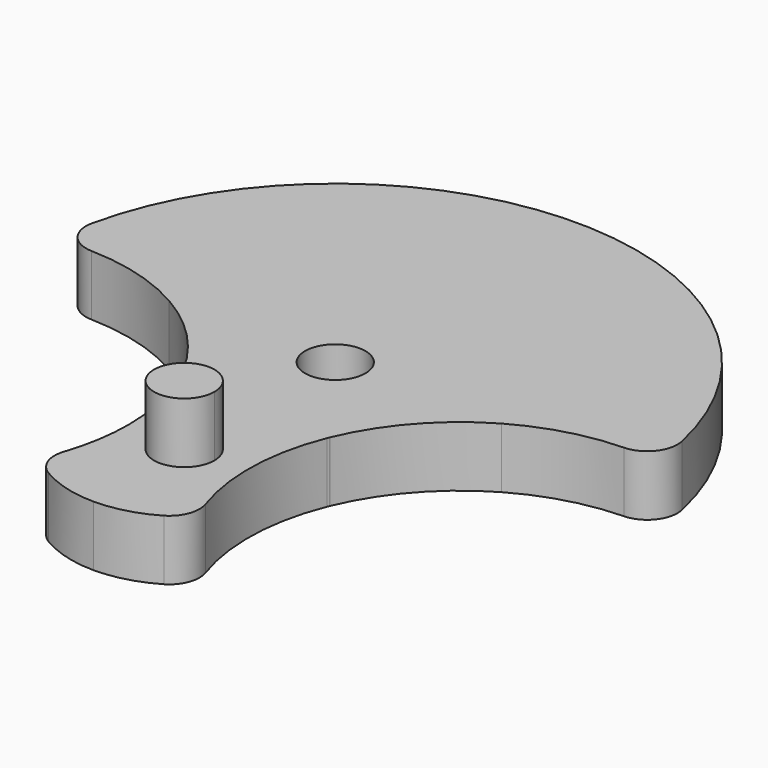
from build123d import *

# Parameters (mm, degrees)
F0_R     = 25.4
F1_DEPTH = 5.08
F3_DEPTH = 25.4
F4_R     = 2.54
F5_R     = 2.54
F6_DEPTH = 25.4
F8_DEPTH = 5.08


with BuildPart() as f1:
    # F0 (on Top) → F1 (new body)
    with BuildSketch(Plane.XY):
        Circle(F0_R)
    extrude(amount=F1_DEPTH)

    # F2 (on face) → F3 (cut)
    with BuildSketch(Plane.XY.offset(5.08)):
        with BuildLine():
            ThreePointArc((-6.6100981471, -22.7330046286), (-9.5231262698, -15.6860792516), (-6.3329048366, -8.7602307605))
            ThreePointArc((-6.3329048366, -8.7602307605), (-6.3640275163, -8.6837329224), (-6.3955051853, -8.6073804713))
            Line((-6.3955051853, -8.6073804713), (-6.4190231614, -8.5806554984))
            ThreePointArc((-6.4190231614, -8.5806554984), (-18.6783561202, -10.4151947963), (-25.4, -3e-09))
            ThreePointArc((-25.4, -3e-09), (-20.4128361311, -15.1154265929), (-7.4097542481, -24.295175282))
            ThreePointArc((-7.4097542481, -24.295175282), (-6.9906405345, -23.523962051), (-6.6100981471, -22.7330046286))
        make_face()
        with BuildLine():
            Line((-13.97, 0), (-6.4190231614, -8.5806554984))
            ThreePointArc((-6.4190231614, -8.5806554984), (-6.4144876205, -8.5766620945), (-6.4099541915, -8.5726662931))
            ThreePointArc((-6.4099541915, -8.5726662931), (-9.482325957, -3.6622711754), (-13.97, 0))
        make_face()
        with BuildLine():
            ThreePointArc((-25.4, -3e-09), (-18.6783561202, -10.4151947963), (-6.4190231614, -8.5806554984))
            Line((-6.4190231614, -8.5806554984), (-13.97, 0))
            ThreePointArc((-13.97, 0), (-19.3966889497, 2.0254618044), (-25.1864455812, 2.1991472264))
            ThreePointArc((-25.1864455812, 2.1991472264), (-25.3464861227, 1.1047458984), (-25.4, -3e-09))
        make_face()
        with BuildLine():
            ThreePointArc((-5.0375846352, -15.4223424331), (-5.3644186356, -12.0289080974), (-6.3329048366, -8.7602307605))
            ThreePointArc((-6.3329048366, -8.7602307605), (-9.5231262698, -15.6860792516), (-6.6100981471, -22.7330046286))
            ThreePointArc((-6.6100981471, -22.7330046286), (-5.4351580244, -19.1612787953), (-5.0375846352, -15.4223424331))
        make_face()
        with BuildLine():
            ThreePointArc((-7.4097542481, -24.295175282), (-3.7458341923, -25.1222754981), (3.3e-08, -25.4))
            ThreePointArc((3.3e-08, -25.4), (-3.3627869226, -24.7866378468), (-6.2924806988, -23.0255462487))
            Line((-6.2924806988, -23.0255462487), (-7.4097542481, -24.295175282))
        make_face()
        with BuildLine():
            Line((7.4097542481, -24.295175282), (6.2924806988, -23.0255462487))
            ThreePointArc((6.2924806988, -23.0255462487), (3.3627869535, -24.7866378352), (3.3e-08, -25.4))
            ThreePointArc((3.3e-08, -25.4), (3.745834225, -25.1222754933), (7.4097542481, -24.295175282))
        make_face()
        with BuildLine():
            ThreePointArc((6.3329048366, -8.7602307605), (8.690412636, -11.9759804802), (9.525, -15.875))
            ThreePointArc((9.525, -15.875), (8.7660370137, -19.6008851398), (6.6100981471, -22.7330046286))
            ThreePointArc((6.6100981471, -22.7330046286), (6.9906405345, -23.523962051), (7.4097542481, -24.295175282))
            ThreePointArc((7.4097542481, -24.295175282), (20.412836132, -15.1154265917), (25.4, 0))
            ThreePointArc((25.4, 0), (18.6783561215, -10.4151947957), (6.4190231614, -8.5806554984))
            Line((6.4190231614, -8.5806554984), (6.3955051853, -8.6073804713))
            ThreePointArc((6.3955051853, -8.6073804713), (6.3640275163, -8.6837329224), (6.3329048366, -8.7602307605))
        make_face()
        with BuildLine():
            Line((13.97, 0), (6.4190231614, -8.5806554984))
            ThreePointArc((6.4190231614, -8.5806554984), (18.6783561215, -10.4151947957), (25.4, 0))
            ThreePointArc((25.4, 0), (25.3464861226, 1.1047458999), (25.1864455812, 2.1991472264))
            ThreePointArc((25.1864455812, 2.1991472264), (19.3966889497, 2.0254618044), (13.97, 0))
        make_face()
        with BuildLine():
            ThreePointArc((6.6100981471, -22.7330046286), (8.7660370137, -19.6008851398), (9.525, -15.875))
            ThreePointArc((9.525, -15.875), (8.690412636, -11.9759804802), (6.3329048366, -8.7602307605))
            ThreePointArc((6.3329048366, -8.7602307605), (5.0410822649, -15.7749944968), (6.6100981471, -22.7330046286))
        make_face()
        with BuildLine():
            ThreePointArc((6.4099541915, -8.5726662931), (6.4144876205, -8.5766620945), (6.4190231614, -8.5806554984))
            Line((6.4190231614, -8.5806554984), (13.97, 0))
            ThreePointArc((13.97, 0), (9.482325957, -3.6622711754), (6.4099541915, -8.5726662931))
        make_face()
        with BuildLine():
            Line((-7.4097542481, -24.295175282), (-6.2924806988, -23.0255462487))
            ThreePointArc((-6.2924806988, -23.0255462487), (-6.4529474172, -22.8810755514), (-6.6100981471, -22.7330046286))
            ThreePointArc((-6.6100981471, -22.7330046286), (-6.9906405345, -23.523962051), (-7.4097542481, -24.295175282))
        make_face()
        with BuildLine():
            ThreePointArc((7.4097542481, -24.295175282), (6.9906405345, -23.523962051), (6.6100981471, -22.7330046286))
            ThreePointArc((6.6100981471, -22.7330046286), (6.4529474172, -22.8810755514), (6.2924806988, -23.0255462487))
            Line((6.2924806988, -23.0255462487), (7.4097542481, -24.295175282))
        make_face()
        with BuildLine():
            ThreePointArc((-25.1864455812, 2.1991472264), (-25.2462602872, 2.1910029214), (-25.306046997, 2.1826555809))
            ThreePointArc((-25.306046997, 2.1826555809), (-25.3765008791, 1.0923383792), (-25.4, -3e-09))
            ThreePointArc((-25.4, -3e-09), (-25.3464861227, 1.1047458984), (-25.1864455812, 2.1991472264))
        make_face()
        with BuildLine():
            ThreePointArc((25.1864455812, 2.1991472264), (25.3464861226, 1.1047458999), (25.4, 0))
            ThreePointArc((25.4, 0), (25.376500879, 1.0923383807), (25.306046997, 2.1826555809))
            ThreePointArc((25.306046997, 2.1826555809), (25.2462602872, 2.1910029214), (25.1864455812, 2.1991472264))
        make_face()
    extrude(amount=-F3_DEPTH, mode=Mode.SUBTRACT)

    # F4
    f4_edges = [f1.edges().sort_by_distance(p)[0] for p in [
        (-25.306047, 2.182656, 2.54),
        (-6.610098, -22.733005, 2.54),
        (6.610098, -22.733005, 2.54),
        (25.306047, 2.182656, 2.54),
    ]]
    fillet(f4_edges, radius=F4_R)

    # F5 (on face) → F6 (cut)
    with BuildSketch(Plane.XY.offset(5.08)):
        Circle(F5_R)
    extrude(amount=-F6_DEPTH, mode=Mode.SUBTRACT)

    # F7 (on face) → F8 (join)
    with BuildSketch(Plane.XY.offset(5.08)):
        with BuildLine():
            ThreePointArc((0, -13.335), (-1.7960512242, -17.6710512242), (2.54, -15.875))
            ThreePointArc((2.54, -15.875), (1.7960512242, -14.0789487758), (0, -13.335))
        make_face()
    extrude(amount=F8_DEPTH)


solid = f1.part
